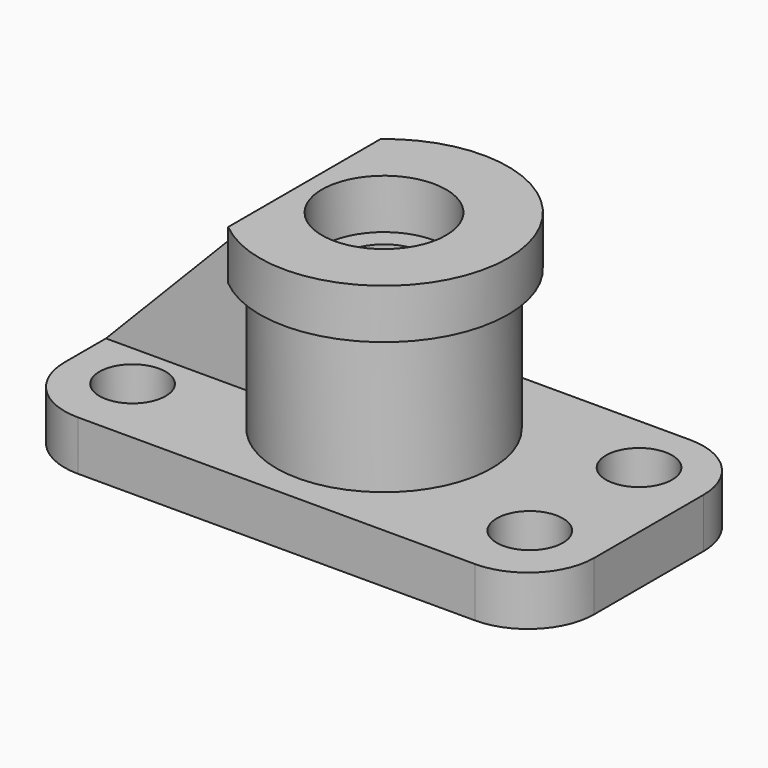
from build123d import *

# Parameters (mm, degrees)
F1_DEPTH  = 12
F2_R      = 8
F3_DEPTH  = 12
F4_R      = 26
F5_DEPTH  = 46
F6_R      = 15
F7_DEPTH  = 12
F8_R      = 10
F9_DEPTH  = 34
F10_R     = 30
F10_R_2   = 26
F11_DEPTH = 12
F13_DEPTH = 46
F14_W     = 44.7685575615
F14_H     = 8
F15_DEPTH = 46
F17_DEPTH = 25


with BuildPart() as f1:
    # F0 (on Top) → F1 (new body)
    with BuildSketch(Plane.XY):
        with BuildLine():
            ThreePointArc((-54.3153104275, 3.1455838755), (-49.6290189265, -8.1681246235), (-38.3153104275, -12.8544161245))
            Line((-38.3153104275, -12.8544161245), (57.6846895725, -12.8544161245))
            ThreePointArc((57.6846895725, -12.8544161245), (68.9983980715, -8.1681246235), (73.6846895725, 3.1455838755))
            Line((73.6846895725, 3.1455838755), (73.6846895725, 36.1455838755))
            ThreePointArc((73.6846895725, 36.1455838755), (68.9983980715, 47.4592923745), (57.6846895725, 52.1455838755))
            Line((57.6846895725, 52.1455838755), (-38.3153104275, 52.1455838755))
            ThreePointArc((-38.3153104275, 52.1455838755), (-49.6290189265, 47.4592923745), (-54.3153104275, 36.1455838755))
            Line((-54.3153104275, 36.1455838755), (-54.3153104275, 3.1455838755))
        make_face()
    extrude(amount=F1_DEPTH)

    # F2 (on face) → F3 (cut)
    with BuildSketch(Plane.XY.offset(12)):
        with Locations((-38.7868596536, 37.2802639987)):
            Circle(F2_R)
        with Locations((-38.7868596536, 4.2802639987)):
            Circle(F2_R)
        with Locations((57.2131403464, 4.2802639987)):
            Circle(F2_R)
        with Locations((57.2131403464, 37.2802639987)):
            Circle(F2_R)
    extrude(amount=-F3_DEPTH, mode=Mode.SUBTRACT)

    # F4 (on face) → F5 (join)
    with BuildSketch(Plane.XY.offset(12)):
        with Locations((9.6846895725, 19.6455838755)):
            Circle(F4_R)
    extrude(amount=F5_DEPTH)

    # F6 (on face) → F7 (cut)
    with BuildSketch(Plane.XY.offset(58)):
        with Locations((9.6846895725, 19.6455838755)):
            Circle(F6_R)
    extrude(amount=-F7_DEPTH, mode=Mode.SUBTRACT)

    # F8 (on face) → F9 (cut)
    with BuildSketch(Plane.XY.offset(46)):
        with Locations((9.6846895725, 19.6455838755)):
            Circle(F8_R)
    extrude(amount=-F9_DEPTH, mode=Mode.SUBTRACT)

    # F10 (on face) → F11 (join)
    with BuildSketch(Plane.XY.offset(58)):
        with Locations((9.6846895725, 19.6455838755)):
            Circle(F10_R)
        with Locations((9.6846895725, 19.6455838755)):
            Circle(F10_R_2, mode=Mode.SUBTRACT)
    extrude(amount=-F11_DEPTH)

    # F12 (on face) → F13 (cut)
    with BuildSketch(Plane.XY.offset(58)):
        with BuildLine():
            Line((-9.546752866, -3.3794377691), (-9.546752866, 42.6706055201))
            ThreePointArc((-9.546752866, 42.6706055201), (-20.3153104275, 19.6455838755), (-9.546752866, -3.3794377691))
        make_face()
    extrude(amount=-F13_DEPTH, mode=Mode.SUBTRACT)

    # F14 (on face) → F15 (join)
    with BuildSketch(Plane.XY.offset(12)):
        with Locations((-31.9310316467, 19.6455838755)):
            Rectangle(F14_W, F14_H)
    extrude(amount=F15_DEPTH)

    # F16 (on face) → F17 (cut)
    with BuildSketch(Plane.XZ.offset(-15.6455838755)):
        Polygon((-54.3153104275, 12), (-9.546752866, 58), (-54.3153104275, 58), align=None)
    extrude(amount=-F17_DEPTH, mode=Mode.SUBTRACT)


solid = f1.part
